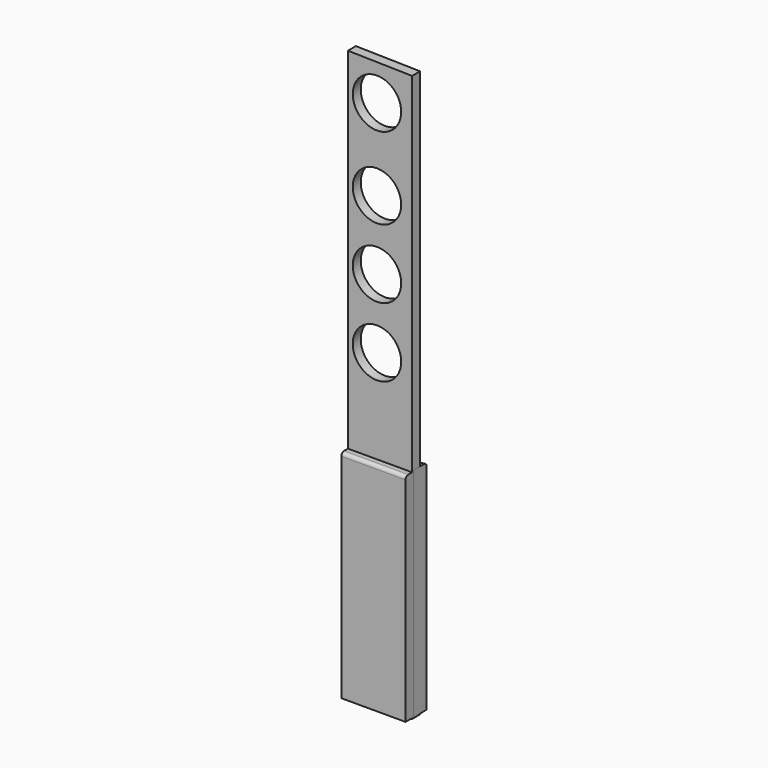
from build123d import *

# Parameters (mm, degrees)
F1_DEPTH = 1.524
F2_R     = 0.25146
F3_R     = 3.6974622631
F4_DEPTH = 1.525
F5_W     = 9.8046935163
F5_H     = 33.0474999556
F6_DEPTH = 1.2573
F7_R     = 0.508
F9_DEPTH = 1.2573
F10_R    = 0.508


with BuildPart() as f1:
    # F0 (on Front) → F1 (new body)
    with BuildSketch(Plane.XZ):
        Polygon((5.364832934, 30.8204153117), (-4.4398605824, 31.0205110515), (-4.4398605824, -55.775757879), (5.364832934, -55.775757879), align=None)
    extrude(amount=F1_DEPTH)

    # F2
    f2_edges = [f1.edges().sort_by_distance(p)[0] for p in [
        (-4.439861, -0.762, -55.775758),
        (5.364833, -0.762, -55.775758),
        (0.462486, 0, -55.775758),
        (0.462486, -1.524, -55.775758),
    ]]
    fillet(f2_edges, radius=F2_R)

    # F3 (on face) → F4 (cut, through all)
    with BuildSketch(Plane.XZ.offset(1.524)):
        with Locations((0, 25.429655737)):
            Circle(F3_R)
        with Locations((0, 12.9547312109)):
            Circle(F3_R)
        with Locations((0, 2.3990240031)):
            Circle(F3_R)
        with Locations((0, -8.1566817554)):
            Circle(F3_R)
    extrude(amount=-F4_DEPTH, mode=Mode.SUBTRACT)


with BuildPart() as f6:
    # F5 (on face) → F6 (new body, symmetric)
    with BuildSketch(Plane.XZ.offset(1.524)):
        with Locations((0.4624861758, -39.0005479012)):
            Rectangle(F5_W, F5_H)
    extrude(amount=F6_DEPTH, both=True)

    # F7
    f7_edges = [f6.edges().sort_by_distance(p)[0] for p in [
        (0.462486, -2.7813, -22.476798),
    ]]
    fillet(f7_edges, radius=F7_R)


with BuildPart() as f9:
    # F8 (on face) → F9 (new body, symmetric)
    with BuildSketch(Plane(origin=(0, 0, 0), x_dir=(-1, 0, 0), z_dir=(0, 1, 0))):
        Polygon((4.4398605824, -23.1657922268), (-5.364832934, -22.3010331392), (-5.364832934, -55.524297879), (4.4398605824, -55.524297879), align=None)
    extrude(amount=F9_DEPTH, both=True)

    # F10
    f10_edges = [f9.edges().sort_by_distance(p)[0] for p in [
        (0.462486, 1.2573, -22.733413),
    ]]
    fillet(f10_edges, radius=F10_R)


solid = Compound([f1.part, f6.part, f9.part])
